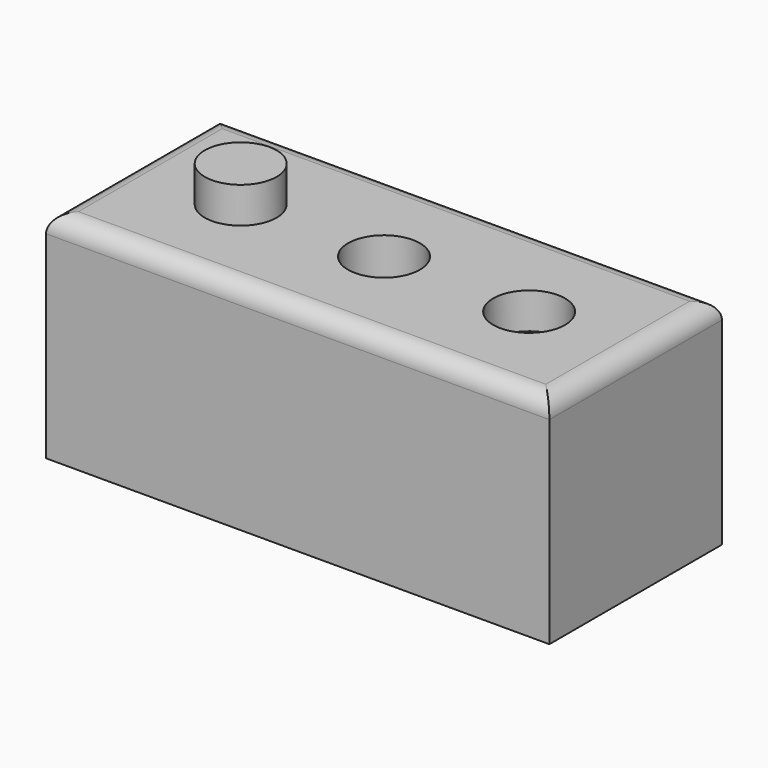
from build123d import *

# Parameters (mm, degrees)
F0_W     = 140
F0_H     = 60
F1_DEPTH = 60
F3_R     = 10
F6_DEPTH = 10
F4_R     = 10
F7_DEPTH = 25
F5_R     = 10
F8_DEPTH = 10
F9_R     = 5


with BuildPart() as f1:
    # F0 (on Top) → F1 (new body)
    with BuildSketch(Plane.XY):
        Rectangle(F0_W, F0_H)
    extrude(amount=F1_DEPTH)

    # F3 (on face) → F6 (join)
    with BuildSketch(Plane.XY.offset(60)):
        with Locations((-39.604324, -0.323002)):
            Circle(F3_R)
    extrude(amount=F6_DEPTH)

    # F4 (on face) → F7 (cut)
    with BuildSketch(Plane.XY.offset(60)):
        Circle(F4_R)
    extrude(amount=-F7_DEPTH, mode=Mode.SUBTRACT)

    # F5 (on face) → F8 (cut)
    with BuildSketch(Plane.XY.offset(60)):
        with Locations((40.830696, -0.571058)):
            Circle(F5_R)
    extrude(amount=-F8_DEPTH, mode=Mode.SUBTRACT)

    # F9
    f9_edges = [f1.edges().sort_by_distance(p)[0] for p in [
        (-70, 0, 60),
        (70, 0, 60),
        (0, -30, 60),
        (0, 30, 60),
    ]]
    fillet(f9_edges, radius=F9_R)


solid = f1.part
